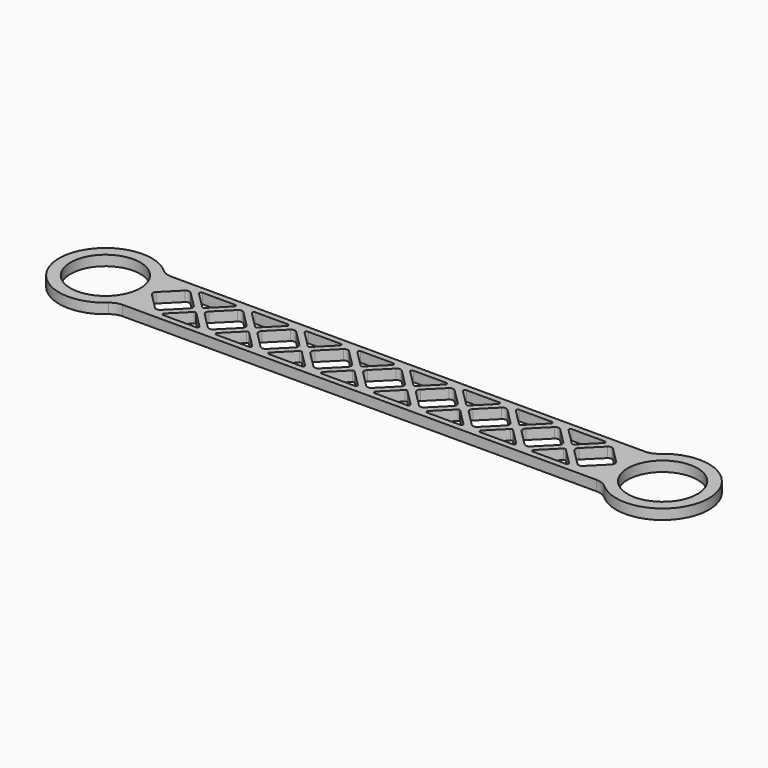
from build123d import *

# Parameters (mm, degrees)
F0_R     = 10.9140625
F1_DEPTH = 3.175
F2_R     = 5.08
F3_SCALE = 2


with BuildPart() as f1:
    # F0 (on Top) → F1 (new body)
    with BuildSketch(Plane.XY):
        with BuildLine():
            Line((-76.2, 0), (-76.2, 9.525))
            ThreePointArc((-76.2, 9.525), (-101.6, 0), (-76.2, -9.525))
            Line((-76.2, -9.525), (-76.2, 0))
        make_face()
        with Locations((-87.1140625, 0)):
            Circle(F0_R, mode=Mode.SUBTRACT)
        with BuildLine():
            ThreePointArc((-72.628125, 0), (-73.5504565543, 5.0863522296), (-76.2, 9.525))
            Line((-76.2, 9.525), (-76.2, 0))
            Line((-76.2, 0), (-76.2, -9.525))
            ThreePointArc((-76.2, -9.525), (-73.5504565543, -5.0863522296), (-72.628125, 0))
        make_face()
        with BuildLine():
            ThreePointArc((76.2, -9.525), (72.628125, 0), (76.2, 9.525))
            Line((76.2, 9.525), (-76.2, 9.525))
            ThreePointArc((-76.2, 9.525), (-73.5504565543, 5.0863522296), (-72.628125, 0))
            ThreePointArc((-72.628125, 0), (-73.5504565543, -5.0863522296), (-76.2, -9.525))
            Line((-76.2, -9.525), (76.2, -9.525))
        make_face()
        with BuildLine():
            ThreePointArc((-62.9085795103, -7.62), (-63.3779103128, -7.3064031836), (-63.2677897552, -6.7527897552))
            Line((-63.2677897552, -6.7527897552), (-58.1442102448, -1.6292102448))
            ThreePointArc((-58.1442102448, -1.6292102448), (-57.785, -1.4804204897), (-57.4257897552, -1.6292102448))
            Line((-57.4257897552, -1.6292102448), (-52.3022102448, -6.7527897552))
            ThreePointArc((-52.3022102448, -6.7527897552), (-52.1920896872, -7.3064031836), (-52.6614204897, -7.62))
            Line((-52.6614204897, -7.62), (-62.9085795103, -7.62))
        make_face(mode=Mode.SUBTRACT)
        with BuildLine():
            Line((-46.7577897552, -6.7527897552), (-41.6342102448, -1.6292102448))
            ThreePointArc((-41.6342102448, -1.6292102448), (-41.275, -1.4804204897), (-40.9157897552, -1.6292102448))
            Line((-40.9157897552, -1.6292102448), (-35.7922102448, -6.7527897552))
            ThreePointArc((-35.7922102448, -6.7527897552), (-35.6820896872, -7.3064031836), (-36.1514204897, -7.62))
            Line((-36.1514204897, -7.62), (-46.3985795103, -7.62))
            ThreePointArc((-46.3985795103, -7.62), (-46.8679103128, -7.3064031836), (-46.7577897552, -6.7527897552))
        make_face(mode=Mode.SUBTRACT)
        with BuildLine():
            Line((-19.6414204897, -7.62), (-29.8885795103, -7.62))
            ThreePointArc((-29.8885795103, -7.62), (-30.3579103128, -7.3064031836), (-30.2477897552, -6.7527897552))
            Line((-30.2477897552, -6.7527897552), (-25.1242102448, -1.6292102448))
            ThreePointArc((-25.1242102448, -1.6292102448), (-24.765, -1.4804204897), (-24.4057897552, -1.6292102448))
            Line((-24.4057897552, -1.6292102448), (-19.2822102448, -6.7527897552))
            ThreePointArc((-19.2822102448, -6.7527897552), (-19.1720896872, -7.3064031836), (-19.6414204897, -7.62))
        make_face(mode=Mode.SUBTRACT)
        with BuildLine():
            Line((-13.7377897552, -6.7527897552), (-8.6142102448, -1.6292102448))
            ThreePointArc((-8.6142102448, -1.6292102448), (-8.255, -1.4804204897), (-7.8957897552, -1.6292102448))
            Line((-7.8957897552, -1.6292102448), (-2.7722102448, -6.7527897552))
            ThreePointArc((-2.7722102448, -6.7527897552), (-2.6620896872, -7.3064031836), (-3.1314204897, -7.62))
            Line((-3.1314204897, -7.62), (-13.3785795103, -7.62))
            ThreePointArc((-13.3785795103, -7.62), (-13.8479103128, -7.3064031836), (-13.7377897552, -6.7527897552))
        make_face(mode=Mode.SUBTRACT)
        with BuildLine():
            Line((-22.3471664787, 0.8980256121), (-17.4080256121, 5.8371664787))
            ThreePointArc((-17.4080256121, 5.8371664787), (-16.51, 6.2091408666), (-15.6119743879, 5.8371664787))
            Line((-15.6119743879, 5.8371664787), (-10.6728335213, 0.8980256121))
            ThreePointArc((-10.6728335213, 0.8980256121), (-10.3008591334, 0), (-10.6728335213, -0.8980256121))
            Line((-10.6728335213, -0.8980256121), (-15.6119743879, -5.8371664787))
            ThreePointArc((-15.6119743879, -5.8371664787), (-16.51, -6.2091408666), (-17.4080256121, -5.8371664787))
            Line((-17.4080256121, -5.8371664787), (-22.3471664787, -0.8980256121))
            ThreePointArc((-22.3471664787, -0.8980256121), (-22.7191408666, 0), (-22.3471664787, 0.8980256121))
        make_face(mode=Mode.SUBTRACT)
        with BuildLine():
            Line((13.3785795103, -7.62), (3.1314204897, -7.62))
            ThreePointArc((3.1314204897, -7.62), (2.6620896872, -7.3064031836), (2.7722102448, -6.7527897552))
            Line((2.7722102448, -6.7527897552), (7.8957897552, -1.6292102448))
            ThreePointArc((7.8957897552, -1.6292102448), (8.255, -1.4804204897), (8.6142102448, -1.6292102448))
            Line((8.6142102448, -1.6292102448), (13.7377897552, -6.7527897552))
            ThreePointArc((13.7377897552, -6.7527897552), (13.8479103128, -7.3064031836), (13.3785795103, -7.62))
        make_face(mode=Mode.SUBTRACT)
        with BuildLine():
            Line((29.8885795103, -7.62), (19.6414204897, -7.62))
            ThreePointArc((19.6414204897, -7.62), (19.1720896872, -7.3064031836), (19.2822102448, -6.7527897552))
            Line((19.2822102448, -6.7527897552), (24.4057897552, -1.6292102448))
            ThreePointArc((24.4057897552, -1.6292102448), (24.765, -1.4804204897), (25.1242102448, -1.6292102448))
            Line((25.1242102448, -1.6292102448), (30.2477897552, -6.7527897552))
            ThreePointArc((30.2477897552, -6.7527897552), (30.3579103128, -7.3064031836), (29.8885795103, -7.62))
        make_face(mode=Mode.SUBTRACT)
        with BuildLine():
            Line((46.3985795103, -7.62), (36.1514204897, -7.62))
            ThreePointArc((36.1514204897, -7.62), (35.6820896872, -7.3064031836), (35.7922102448, -6.7527897552))
            Line((35.7922102448, -6.7527897552), (40.9157897552, -1.6292102448))
            ThreePointArc((40.9157897552, -1.6292102448), (41.275, -1.4804204897), (41.6342102448, -1.6292102448))
            Line((41.6342102448, -1.6292102448), (46.7577897552, -6.7527897552))
            ThreePointArc((46.7577897552, -6.7527897552), (46.8679103128, -7.3064031836), (46.3985795103, -7.62))
        make_face(mode=Mode.SUBTRACT)
        with BuildLine():
            Line((62.9085795103, -7.62), (52.6614204897, -7.62))
            ThreePointArc((52.6614204897, -7.62), (52.1920896872, -7.3064031836), (52.3022102448, -6.7527897552))
            Line((52.3022102448, -6.7527897552), (57.4257897552, -1.6292102448))
            ThreePointArc((57.4257897552, -1.6292102448), (57.785, -1.4804204897), (58.1442102448, -1.6292102448))
            Line((58.1442102448, -1.6292102448), (63.2677897552, -6.7527897552))
            ThreePointArc((63.2677897552, -6.7527897552), (63.3779103128, -7.3064031836), (62.9085795103, -7.62))
        make_face(mode=Mode.SUBTRACT)
        with BuildLine():
            Line((-71.8771664787, 0.8980256121), (-66.9380256121, 5.8371664787))
            ThreePointArc((-66.9380256121, 5.8371664787), (-66.04, 6.2091408666), (-65.1419743879, 5.8371664787))
            Line((-65.1419743879, 5.8371664787), (-60.2028335213, 0.8980256121))
            ThreePointArc((-60.2028335213, 0.8980256121), (-59.8308591334, 0), (-60.2028335213, -0.8980256121))
            Line((-60.2028335213, -0.8980256121), (-65.1419743879, -5.8371664787))
            ThreePointArc((-65.1419743879, -5.8371664787), (-66.04, -6.2091408666), (-66.9380256121, -5.8371664787))
            Line((-66.9380256121, -5.8371664787), (-71.8771664787, -0.8980256121))
            ThreePointArc((-71.8771664787, -0.8980256121), (-72.2491408666, 0), (-71.8771664787, 0.8980256121))
        make_face(mode=Mode.SUBTRACT)
        with BuildLine():
            Line((-52.3022102448, 6.7527897552), (-57.4257897552, 1.6292102448))
            ThreePointArc((-57.4257897552, 1.6292102448), (-57.785, 1.4804204897), (-58.1442102448, 1.6292102448))
            Line((-58.1442102448, 1.6292102448), (-63.2677897552, 6.7527897552))
            ThreePointArc((-63.2677897552, 6.7527897552), (-63.3779103128, 7.3064031836), (-62.9085795103, 7.62))
            Line((-62.9085795103, 7.62), (-52.6614204897, 7.62))
            ThreePointArc((-52.6614204897, 7.62), (-52.1920896872, 7.3064031836), (-52.3022102448, 6.7527897552))
        make_face(mode=Mode.SUBTRACT)
        with BuildLine():
            Line((-55.3671664787, 0.8980256121), (-50.4280256121, 5.8371664787))
            ThreePointArc((-50.4280256121, 5.8371664787), (-49.53, 6.2091408666), (-48.6319743879, 5.8371664787))
            Line((-48.6319743879, 5.8371664787), (-43.6928335213, 0.8980256121))
            ThreePointArc((-43.6928335213, 0.8980256121), (-43.3208591334, 0), (-43.6928335213, -0.8980256121))
            Line((-43.6928335213, -0.8980256121), (-48.6319743879, -5.8371664787))
            ThreePointArc((-48.6319743879, -5.8371664787), (-49.53, -6.2091408666), (-50.4280256121, -5.8371664787))
            Line((-50.4280256121, -5.8371664787), (-55.3671664787, -0.8980256121))
            ThreePointArc((-55.3671664787, -0.8980256121), (-55.7391408666, 0), (-55.3671664787, 0.8980256121))
        make_face(mode=Mode.SUBTRACT)
        with BuildLine():
            Line((-33.9180256121, -5.8371664787), (-38.8571664787, -0.8980256121))
            ThreePointArc((-38.8571664787, -0.8980256121), (-39.2291408666, 0), (-38.8571664787, 0.8980256121))
            Line((-38.8571664787, 0.8980256121), (-33.9180256121, 5.8371664787))
            ThreePointArc((-33.9180256121, 5.8371664787), (-33.02, 6.2091408666), (-32.1219743879, 5.8371664787))
            Line((-32.1219743879, 5.8371664787), (-27.1828335213, 0.8980256121))
            ThreePointArc((-27.1828335213, 0.8980256121), (-26.8108591334, 0), (-27.1828335213, -0.8980256121))
            Line((-27.1828335213, -0.8980256121), (-32.1219743879, -5.8371664787))
            ThreePointArc((-32.1219743879, -5.8371664787), (-33.02, -6.2091408666), (-33.9180256121, -5.8371664787))
        make_face(mode=Mode.SUBTRACT)
        with BuildLine():
            Line((-35.7922102448, 6.7527897552), (-40.9157897552, 1.6292102448))
            ThreePointArc((-40.9157897552, 1.6292102448), (-41.275, 1.4804204897), (-41.6342102448, 1.6292102448))
            Line((-41.6342102448, 1.6292102448), (-46.7577897552, 6.7527897552))
            ThreePointArc((-46.7577897552, 6.7527897552), (-46.8679103128, 7.3064031836), (-46.3985795103, 7.62))
            Line((-46.3985795103, 7.62), (-36.1514204897, 7.62))
            ThreePointArc((-36.1514204897, 7.62), (-35.6820896872, 7.3064031836), (-35.7922102448, 6.7527897552))
        make_face(mode=Mode.SUBTRACT)
        with BuildLine():
            Line((-19.2822102448, 6.7527897552), (-24.4057897552, 1.6292102448))
            ThreePointArc((-24.4057897552, 1.6292102448), (-24.765, 1.4804204897), (-25.1242102448, 1.6292102448))
            Line((-25.1242102448, 1.6292102448), (-30.2477897552, 6.7527897552))
            ThreePointArc((-30.2477897552, 6.7527897552), (-30.3579103128, 7.3064031836), (-29.8885795103, 7.62))
            Line((-29.8885795103, 7.62), (-19.6414204897, 7.62))
            ThreePointArc((-19.6414204897, 7.62), (-19.1720896872, 7.3064031836), (-19.2822102448, 6.7527897552))
        make_face(mode=Mode.SUBTRACT)
        with BuildLine():
            Line((-2.7722102448, 6.7527897552), (-7.8957897552, 1.6292102448))
            ThreePointArc((-7.8957897552, 1.6292102448), (-8.255, 1.4804204897), (-8.6142102448, 1.6292102448))
            Line((-8.6142102448, 1.6292102448), (-13.7377897552, 6.7527897552))
            ThreePointArc((-13.7377897552, 6.7527897552), (-13.8479103128, 7.3064031836), (-13.3785795103, 7.62))
            Line((-13.3785795103, 7.62), (-3.1314204897, 7.62))
            ThreePointArc((-3.1314204897, 7.62), (-2.6620896872, 7.3064031836), (-2.7722102448, 6.7527897552))
        make_face(mode=Mode.SUBTRACT)
        with BuildLine():
            ThreePointArc((-0.8980256121, 5.8371664787), (0, 6.2091408666), (0.8980256121, 5.8371664787))
            Line((0.8980256121, 5.8371664787), (5.8371664787, 0.8980256121))
            ThreePointArc((5.8371664787, 0.8980256121), (6.2091408666, 0), (5.8371664787, -0.8980256121))
            Line((5.8371664787, -0.8980256121), (0.8980256121, -5.8371664787))
            ThreePointArc((0.8980256121, -5.8371664787), (0, -6.2091408666), (-0.8980256121, -5.8371664787))
            Line((-0.8980256121, -5.8371664787), (-5.8371664787, -0.8980256121))
            ThreePointArc((-5.8371664787, -0.8980256121), (-6.2091408666, 0), (-5.8371664787, 0.8980256121))
            Line((-5.8371664787, 0.8980256121), (-0.8980256121, 5.8371664787))
        make_face(mode=Mode.SUBTRACT)
        with BuildLine():
            ThreePointArc((15.6119743879, 5.8371664787), (16.51, 6.2091408666), (17.4080256121, 5.8371664787))
            Line((17.4080256121, 5.8371664787), (22.3471664787, 0.8980256121))
            ThreePointArc((22.3471664787, 0.8980256121), (22.7191408666, 0), (22.3471664787, -0.8980256121))
            Line((22.3471664787, -0.8980256121), (17.4080256121, -5.8371664787))
            ThreePointArc((17.4080256121, -5.8371664787), (16.51, -6.2091408666), (15.6119743879, -5.8371664787))
            Line((15.6119743879, -5.8371664787), (10.6728335213, -0.8980256121))
            ThreePointArc((10.6728335213, -0.8980256121), (10.3008591334, 0), (10.6728335213, 0.8980256121))
            Line((10.6728335213, 0.8980256121), (15.6119743879, 5.8371664787))
        make_face(mode=Mode.SUBTRACT)
        with BuildLine():
            ThreePointArc((32.1219743879, 5.8371664787), (33.02, 6.2091408666), (33.9180256121, 5.8371664787))
            Line((33.9180256121, 5.8371664787), (38.8571664787, 0.8980256121))
            ThreePointArc((38.8571664787, 0.8980256121), (39.2291408666, 0), (38.8571664787, -0.8980256121))
            Line((38.8571664787, -0.8980256121), (33.9180256121, -5.8371664787))
            ThreePointArc((33.9180256121, -5.8371664787), (33.02, -6.2091408666), (32.1219743879, -5.8371664787))
            Line((32.1219743879, -5.8371664787), (27.1828335213, -0.8980256121))
            ThreePointArc((27.1828335213, -0.8980256121), (26.8108591334, 0), (27.1828335213, 0.8980256121))
            Line((27.1828335213, 0.8980256121), (32.1219743879, 5.8371664787))
        make_face(mode=Mode.SUBTRACT)
        with BuildLine():
            ThreePointArc((48.6319743879, 5.8371664787), (49.53, 6.2091408666), (50.4280256121, 5.8371664787))
            Line((50.4280256121, 5.8371664787), (55.3671664787, 0.8980256121))
            ThreePointArc((55.3671664787, 0.8980256121), (55.7391408666, 0), (55.3671664787, -0.8980256121))
            Line((55.3671664787, -0.8980256121), (50.4280256121, -5.8371664787))
            ThreePointArc((50.4280256121, -5.8371664787), (49.53, -6.2091408666), (48.6319743879, -5.8371664787))
            Line((48.6319743879, -5.8371664787), (43.6928335213, -0.8980256121))
            ThreePointArc((43.6928335213, -0.8980256121), (43.3208591334, 0), (43.6928335213, 0.8980256121))
            Line((43.6928335213, 0.8980256121), (48.6319743879, 5.8371664787))
        make_face(mode=Mode.SUBTRACT)
        with BuildLine():
            Line((13.7377897552, 6.7527897552), (8.6142102448, 1.6292102448))
            ThreePointArc((8.6142102448, 1.6292102448), (8.255, 1.4804204897), (7.8957897552, 1.6292102448))
            Line((7.8957897552, 1.6292102448), (2.7722102448, 6.7527897552))
            ThreePointArc((2.7722102448, 6.7527897552), (2.6620896872, 7.3064031836), (3.1314204897, 7.62))
            Line((3.1314204897, 7.62), (13.3785795103, 7.62))
            ThreePointArc((13.3785795103, 7.62), (13.8479103128, 7.3064031836), (13.7377897552, 6.7527897552))
        make_face(mode=Mode.SUBTRACT)
        with BuildLine():
            Line((30.2477897552, 6.7527897552), (25.1242102448, 1.6292102448))
            ThreePointArc((25.1242102448, 1.6292102448), (24.765, 1.4804204897), (24.4057897552, 1.6292102448))
            Line((24.4057897552, 1.6292102448), (19.2822102448, 6.7527897552))
            ThreePointArc((19.2822102448, 6.7527897552), (19.1720896872, 7.3064031836), (19.6414204897, 7.62))
            Line((19.6414204897, 7.62), (29.8885795103, 7.62))
            ThreePointArc((29.8885795103, 7.62), (30.3579103128, 7.3064031836), (30.2477897552, 6.7527897552))
        make_face(mode=Mode.SUBTRACT)
        with BuildLine():
            Line((46.7577897552, 6.7527897552), (41.6342102448, 1.6292102448))
            ThreePointArc((41.6342102448, 1.6292102448), (41.275, 1.4804204897), (40.9157897552, 1.6292102448))
            Line((40.9157897552, 1.6292102448), (35.7922102448, 6.7527897552))
            ThreePointArc((35.7922102448, 6.7527897552), (35.6820896872, 7.3064031836), (36.1514204897, 7.62))
            Line((36.1514204897, 7.62), (46.3985795103, 7.62))
            ThreePointArc((46.3985795103, 7.62), (46.8679103128, 7.3064031836), (46.7577897552, 6.7527897552))
        make_face(mode=Mode.SUBTRACT)
        with BuildLine():
            ThreePointArc((65.1419743879, 5.8371664787), (66.04, 6.2091408666), (66.9380256121, 5.8371664787))
            Line((66.9380256121, 5.8371664787), (71.8771664787, 0.8980256121))
            ThreePointArc((71.8771664787, 0.8980256121), (72.2491408666, 0), (71.8771664787, -0.8980256121))
            Line((71.8771664787, -0.8980256121), (66.9380256121, -5.8371664787))
            ThreePointArc((66.9380256121, -5.8371664787), (66.04, -6.2091408666), (65.1419743879, -5.8371664787))
            Line((65.1419743879, -5.8371664787), (60.2028335213, -0.8980256121))
            ThreePointArc((60.2028335213, -0.8980256121), (59.8308591334, 0), (60.2028335213, 0.8980256121))
            Line((60.2028335213, 0.8980256121), (65.1419743879, 5.8371664787))
        make_face(mode=Mode.SUBTRACT)
        with BuildLine():
            Line((63.2677897552, 6.7527897552), (58.1442102448, 1.6292102448))
            ThreePointArc((58.1442102448, 1.6292102448), (57.785, 1.4804204897), (57.4257897552, 1.6292102448))
            Line((57.4257897552, 1.6292102448), (52.3022102448, 6.7527897552))
            ThreePointArc((52.3022102448, 6.7527897552), (52.1920896872, 7.3064031836), (52.6614204897, 7.62))
            Line((52.6614204897, 7.62), (62.9085795103, 7.62))
            ThreePointArc((62.9085795103, 7.62), (63.3779103128, 7.3064031836), (63.2677897552, 6.7527897552))
        make_face(mode=Mode.SUBTRACT)
        with BuildLine():
            Line((76.2, 4.51e-08), (76.2, 9.525))
            ThreePointArc((76.2, 9.525), (72.628125, 0), (76.2, -9.525))
            Line((76.2, -9.525), (76.2, 4.51e-08))
        make_face()
        with BuildLine():
            ThreePointArc((101.6, 0), (92.2004147296, 13.5636059457), (76.2, 9.525))
            Line((76.2, 9.525), (76.2, 4.51e-08))
            Line((76.2, 4.51e-08), (76.2, -9.525))
            ThreePointArc((76.2, -9.525), (92.2004147296, -13.5636059457), (101.6, 0))
        make_face()
        with BuildLine():
            ThreePointArc((98.028125, 0), (87.1140624774, -10.9140625), (76.2, 4.51e-08))
            ThreePointArc((76.2, 4.51e-08), (87.1140625226, 10.9140625), (98.028125, 0))
        make_face(mode=Mode.SUBTRACT)
    extrude(amount=F1_DEPTH)

    # F2
    f2_edges = [f1.edges().sort_by_distance(p)[0] for p in [
        (-76.2, 9.525, 1.5875),
        (-76.2, -9.525, 1.5875),
        (76.2, -9.525, 1.5875),
        (76.2, 9.525, 1.5875),
    ]]
    fillet(f2_edges, radius=F2_R)


with BuildPart() as f1_1:
    # F3: moved
    add(f1.part.scale(F3_SCALE))


solid = f1_1.part
